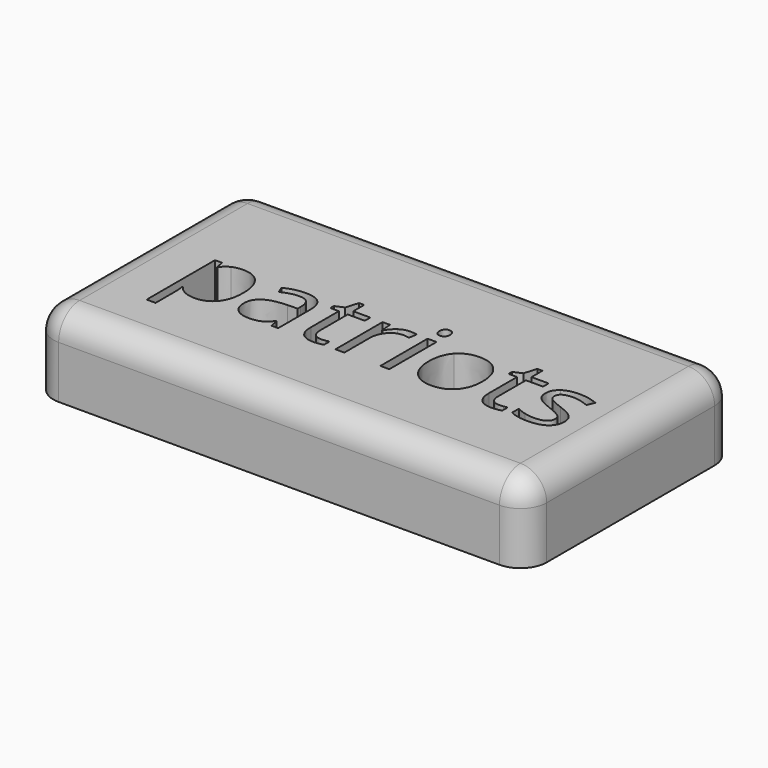
from build123d import *

# Parameters (mm, degrees)
F0_W     = 95.5135166992
F0_H     = 50.8
F0_W_2   = 1.7292703406
F0_H_2   = 11.411851477
F1_DEPTH = 15.24
F2_R     = 5.08


with BuildPart() as f1:
    # F0 (on Top) → F1 (new body)
    with BuildSketch(Plane.XY):
        with Locations((-40.7673553974, 31.574638178)):
            Rectangle(F0_W, F0_H)
        with BuildLine():
            add(Edge.make_bspline(
                [(-66.9101008572, 24.2706731889), (-68.1645715379, 22.7129971114), (-70.3936309942, 22.7129971114)],
                knots=[0, 0, 0, 1, 1, 1], degree=2))
            add(Edge.make_bspline(
                [(-70.3936309942, 22.7129971114), (-71.5098266862, 22.7129971114), (-72.4311046229, 23.12449015)],
                knots=[0, 0, 0, 1, 1, 1], degree=2))
            add(Edge.make_bspline(
                [(-72.4311046229, 23.12449015), (-73.3523825597, 23.5359831887), (-73.9754529907, 24.3922885404)],
                knots=[0, 0, 0, 1, 1, 1], degree=2))
            Line((-73.9754529907, 24.3922885404), (-74.1020662334, 24.3922885404))
            add(Edge.make_bspline(
                [(-74.1020662334, 24.3922885404), (-73.9754529907, 23.3927103088), (-73.9754529907, 22.4964218278)],
                knots=[0, 0, 0, 1, 1, 1], degree=2))
            Line((-73.9754529907, 22.4964218278), (-73.9754529907, 17.7984041395))
            Line((-73.9754529907, 17.7984041395), (-75.7047233313, 17.7984041395))
            Line((-75.7047233313, 17.7984041395), (-75.7047233313, 34.334760017))
            Line((-75.7047233313, 34.334760017), (-74.2986499522, 34.334760017))
            Line((-74.2986499522, 34.334760017), (-74.0587511767, 32.7720860483))
            Line((-74.0587511767, 32.7720860483), (-73.9754529907, 32.7720860483))
            add(Edge.make_bspline(
                [(-73.9754529907, 32.7720860483), (-73.309067503, 33.711689586), (-72.424440768, 34.1281805158)],
                knots=[0, 0, 0, 1, 1, 1], degree=2))
            add(Edge.make_bspline(
                [(-72.424440768, 34.1281805158), (-71.5398140331, 34.5446714456), (-70.3936309942, 34.5446714456)],
                knots=[0, 0, 0, 1, 1, 1], degree=2))
            add(Edge.make_bspline(
                [(-70.3936309942, 34.5446714456), (-68.1245884086, 34.5446714456), (-66.8901092926, 32.9919932593)],
                knots=[0, 0, 0, 1, 1, 1], degree=2))
            add(Edge.make_bspline(
                [(-66.8901092926, 32.9919932593), (-65.6556301766, 31.4393150729), (-65.6556301766, 28.6404960245)],
                knots=[0, 0, 0, 1, 1, 1], degree=2))
            add(Edge.make_bspline(
                [(-65.6556301766, 28.6404960245), (-65.6556301766, 25.8283492664), (-66.9101008572, 24.2706731889)],
                knots=[0, 0, 0, 1, 1, 1], degree=2))
        make_face(mode=Mode.SUBTRACT)
        with BuildLine():
            Line((-54.3370726679, 22.92290854), (-55.6198647317, 22.92290854))
            Line((-55.6198647317, 22.92290854), (-55.9630532579, 24.54888913))
            Line((-55.9630532579, 24.54888913), (-56.0463514439, 24.54888913))
            add(Edge.make_bspline(
                [(-56.0463514439, 24.54888913), (-56.8993248681, 23.4760084948), (-57.7473004012, 23.0945028031)],
                knots=[0, 0, 0, 1, 1, 1], degree=2))
            add(Edge.make_bspline(
                [(-57.7473004012, 23.0945028031), (-58.5952759343, 22.7129971114), (-59.8680722159, 22.7129971114)],
                knots=[0, 0, 0, 1, 1, 1], degree=2))
            add(Edge.make_bspline(
                [(-59.8680722159, 22.7129971114), (-61.5640232821, 22.7129971114), (-62.5269503118, 23.5892940277)],
                knots=[0, 0, 0, 1, 1, 1], degree=2))
            add(Edge.make_bspline(
                [(-62.5269503118, 23.5892940277), (-63.4898773416, 24.465590944), (-63.4898773416, 26.0782438243)],
                knots=[0, 0, 0, 1, 1, 1], degree=2))
            add(Edge.make_bspline(
                [(-63.4898773416, 26.0782438243), (-63.4898773416, 29.5334525781), (-57.962209721, 29.70004895)],
                knots=[0, 0, 0, 1, 1, 1], degree=2))
            Line((-57.962209721, 29.70004895), (-56.0263598792, 29.7633555713))
            Line((-56.0263598792, 29.7633555713), (-56.0263598792, 30.4730561157))
            add(Edge.make_bspline(
                [(-56.0263598792, 30.4730561157), (-56.0263598792, 31.8158228735), (-56.6027833261, 32.4555529417)],
                knots=[0, 0, 0, 1, 1, 1], degree=2))
            add(Edge.make_bspline(
                [(-56.6027833261, 32.4555529417), (-57.179206773, 33.0952830099), (-58.4520030545, 33.0952830099)],
                knots=[0, 0, 0, 1, 1, 1], degree=2))
            add(Edge.make_bspline(
                [(-58.4520030545, 33.0952830099), (-59.8780679982, 33.0952830099), (-61.677308815, 32.222318021)],
                knots=[0, 0, 0, 1, 1, 1], degree=2))
            Line((-61.677308815, 32.222318021), (-62.2104172052, 33.5450932141))
            add(Edge.make_bspline(
                [(-62.2104172052, 33.5450932141), (-61.3674395632, 34.0015672732), (-60.3628634405, 34.2614576134)],
                knots=[0, 0, 0, 1, 1, 1], degree=2))
            add(Edge.make_bspline(
                [(-60.3628634405, 34.2614576134), (-59.3582873178, 34.5213479536), (-58.3453813765, 34.5213479536)],
                knots=[0, 0, 0, 1, 1, 1], degree=2))
            add(Edge.make_bspline(
                [(-58.3453813765, 34.5213479536), (-56.3062417841, 34.5213479536), (-55.321657226, 33.616729654)],
                knots=[0, 0, 0, 1, 1, 1], degree=2))
            add(Edge.make_bspline(
                [(-55.321657226, 33.616729654), (-54.3370726679, 32.7121113544), (-54.3370726679, 30.7129548913)],
                knots=[0, 0, 0, 1, 1, 1], degree=2))
            Line((-54.3370726679, 30.7129548913), (-54.3370726679, 22.92290854))
        make_face(mode=Mode.SUBTRACT)
        with BuildLine():
            add(Edge.make_bspline(
                [(-48.4362291742, 24.6938279736), (-47.9464358407, 24.1423939825), (-47.0934624165, 24.1423939825)],
                knots=[0, 0, 0, 1, 1, 1], degree=2))
            add(Edge.make_bspline(
                [(-47.0934624165, 24.1423939825), (-46.6336564299, 24.1423939825), (-46.2071697178, 24.2090325313)],
                knots=[0, 0, 0, 1, 1, 1], degree=2))
            add(Edge.make_bspline(
                [(-46.2071697178, 24.2090325313), (-45.7806830057, 24.27567108), (-45.5307884478, 24.3489734837)],
                knots=[0, 0, 0, 1, 1, 1], degree=2))
            Line((-45.5307884478, 24.3489734837), (-45.5307884478, 23.0261982906))
            add(Edge.make_bspline(
                [(-45.5307884478, 23.0261982906), (-45.8106703526, 22.892921193), (-46.3571064525, 22.8029591522)],
                knots=[0, 0, 0, 1, 1, 1], degree=2))
            add(Edge.make_bspline(
                [(-46.3571064525, 22.8029591522), (-46.9035425525, 22.7129971114), (-47.3433569744, 22.7129971114)],
                knots=[0, 0, 0, 1, 1, 1], degree=2))
            add(Edge.make_bspline(
                [(-47.3433569744, 22.7129971114), (-50.6519609208, 22.7129971114), (-50.6519609208, 26.2015251395)],
                knots=[0, 0, 0, 1, 1, 1], degree=2))
            Line((-50.6519609208, 26.2015251395), (-50.6519609208, 32.9919932593))
            Line((-50.6519609208, 32.9919932593), (-52.2879372932, 32.9919932593))
            Line((-52.2879372932, 32.9919932593), (-52.2879372932, 33.8249751189))
            Line((-52.2879372932, 33.8249751189), (-50.6519609208, 34.5446714456))
            Line((-50.6519609208, 34.5446714456), (-49.9256007392, 36.9803104032))
            Line((-49.9256007392, 36.9803104032), (-48.9260225077, 36.9803104032))
            Line((-48.9260225077, 36.9803104032), (-48.9260225077, 34.334760017))
            Line((-48.9260225077, 34.334760017), (-45.6140866338, 34.334760017))
            Line((-45.6140866338, 34.334760017), (-45.6140866338, 32.9919932593))
            Line((-45.6140866338, 32.9919932593), (-48.9260225077, 32.9919932593))
            Line((-48.9260225077, 32.9919932593), (-48.9260225077, 26.2748275432))
            add(Edge.make_bspline(
                [(-48.9260225077, 26.2748275432), (-48.9260225077, 25.2452619647), (-48.4362291742, 24.6938279736)],
                knots=[0, 0, 0, 1, 1, 1], degree=2))
        make_face(mode=Mode.SUBTRACT)
        with BuildLine():
            add(Edge.make_bspline(
                [(-40.0131166095, 33.9399266155), (-39.1168281286, 34.5446714456), (-38.0439474934, 34.5446714456)],
                knots=[0, 0, 0, 1, 1, 1], degree=2))
            add(Edge.make_bspline(
                [(-38.0439474934, 34.5446714456), (-37.2842680374, 34.5446714456), (-36.681189171, 34.418058203)],
                knots=[0, 0, 0, 1, 1, 1], degree=2))
            Line((-36.681189171, 34.418058203), (-36.9210879466, 32.815401105))
            add(Edge.make_bspline(
                [(-36.9210879466, 32.815401105), (-37.6274565635, 32.9720016947), (-38.170560736, 32.9720016947)],
                knots=[0, 0, 0, 1, 1, 1], degree=2))
            add(Edge.make_bspline(
                [(-38.170560736, 32.9720016947), (-39.5566425505, 32.9720016947), (-40.5395611448, 31.8474761841)],
                knots=[0, 0, 0, 1, 1, 1], degree=2))
            add(Edge.make_bspline(
                [(-40.5395611448, 31.8474761841), (-41.5224797392, 30.7229506736), (-41.5224797392, 29.046991172)],
                knots=[0, 0, 0, 1, 1, 1], degree=2))
            Line((-41.5224797392, 29.046991172), (-41.5224797392, 22.92290854))
            Line((-41.5224797392, 22.92290854), (-43.2517500798, 22.92290854))
            Line((-43.2517500798, 22.92290854), (-43.2517500798, 34.334760017))
            Line((-43.2517500798, 34.334760017), (-41.8256851361, 34.334760017))
            Line((-41.8256851361, 34.334760017), (-41.6257694898, 32.222318021))
            Line((-41.6257694898, 32.222318021), (-41.5424713038, 32.222318021))
            add(Edge.make_bspline(
                [(-41.5424713038, 32.222318021), (-40.9094050905, 33.3351817855), (-40.0131166095, 33.9399266155)],
                knots=[0, 0, 0, 1, 1, 1], degree=2))
        make_face(mode=Mode.SUBTRACT)
        with Locations((-33.6807885126, 28.6288342785)):
            Rectangle(F0_W_2, F0_H_2, mode=Mode.SUBTRACT)
        with BuildLine():
            add(Edge.make_bspline(
                [(-20.7129269217, 32.9503441663), (-19.3018556515, 31.356016887), (-19.3018556515, 28.6404960245)],
                knots=[0, 0, 0, 1, 1, 1], degree=2))
            add(Edge.make_bspline(
                [(-19.3018556515, 28.6404960245), (-19.3018556515, 25.848340831), (-20.7062630669, 24.2806689712)],
                knots=[0, 0, 0, 1, 1, 1], degree=2))
            add(Edge.make_bspline(
                [(-20.7062630669, 24.2806689712), (-22.1106704822, 22.7129971114), (-24.5896244965, 22.7129971114)],
                knots=[0, 0, 0, 1, 1, 1], degree=2))
            add(Edge.make_bspline(
                [(-24.5896244965, 22.7129971114), (-26.1223111182, 22.7129971114), (-27.3084772864, 23.4326934381)],
                knots=[0, 0, 0, 1, 1, 1], degree=2))
            add(Edge.make_bspline(
                [(-27.3084772864, 23.4326934381), (-28.4946434545, 24.1523897648), (-29.1410373776, 25.4951565225)],
                knots=[0, 0, 0, 1, 1, 1], degree=2))
            add(Edge.make_bspline(
                [(-29.1410373776, 25.4951565225), (-29.7874313006, 26.8379232803), (-29.7874313006, 28.6404960245)],
                knots=[0, 0, 0, 1, 1, 1], degree=2))
            add(Edge.make_bspline(
                [(-29.7874313006, 28.6404960245), (-29.7874313006, 31.4293192906), (-28.3913537039, 32.9869953681)],
                knots=[0, 0, 0, 1, 1, 1], degree=2))
            add(Edge.make_bspline(
                [(-28.3913537039, 32.9869953681), (-26.9952761071, 34.5446714456), (-24.5163220929, 34.5446714456)],
                knots=[0, 0, 0, 1, 1, 1], degree=2))
            add(Edge.make_bspline(
                [(-24.5163220929, 34.5446714456), (-22.123998192, 34.5446714456), (-20.7129269217, 32.9503441663)],
                knots=[0, 0, 0, 1, 1, 1], degree=2))
        make_face(mode=Mode.SUBTRACT)
        with BuildLine():
            add(Edge.make_bspline(
                [(-13.9274566931, 24.6938279736), (-13.4376633597, 24.1423939825), (-12.5846899354, 24.1423939825)],
                knots=[0, 0, 0, 1, 1, 1], degree=2))
            add(Edge.make_bspline(
                [(-12.5846899354, 24.1423939825), (-12.1248839489, 24.1423939825), (-11.6983972367, 24.2090325313)],
                knots=[0, 0, 0, 1, 1, 1], degree=2))
            add(Edge.make_bspline(
                [(-11.6983972367, 24.2090325313), (-11.2719105246, 24.27567108), (-11.0220159667, 24.3489734837)],
                knots=[0, 0, 0, 1, 1, 1], degree=2))
            Line((-11.0220159667, 24.3489734837), (-11.0220159667, 23.0261982906))
            add(Edge.make_bspline(
                [(-11.0220159667, 23.0261982906), (-11.3018978716, 22.892921193), (-11.8483339715, 22.8029591522)],
                knots=[0, 0, 0, 1, 1, 1], degree=2))
            add(Edge.make_bspline(
                [(-11.8483339715, 22.8029591522), (-12.3947700714, 22.7129971114), (-12.8345844933, 22.7129971114)],
                knots=[0, 0, 0, 1, 1, 1], degree=2))
            add(Edge.make_bspline(
                [(-12.8345844933, 22.7129971114), (-16.1431884398, 22.7129971114), (-16.1431884398, 26.2015251395)],
                knots=[0, 0, 0, 1, 1, 1], degree=2))
            Line((-16.1431884398, 26.2015251395), (-16.1431884398, 32.9919932593))
            Line((-16.1431884398, 32.9919932593), (-17.7791648121, 32.9919932593))
            Line((-17.7791648121, 32.9919932593), (-17.7791648121, 33.8249751189))
            Line((-17.7791648121, 33.8249751189), (-16.1431884398, 34.5446714456))
            Line((-16.1431884398, 34.5446714456), (-15.4168282582, 36.9803104032))
            Line((-15.4168282582, 36.9803104032), (-14.4172500266, 36.9803104032))
            Line((-14.4172500266, 36.9803104032), (-14.4172500266, 34.334760017))
            Line((-14.4172500266, 34.334760017), (-11.1053141527, 34.334760017))
            Line((-11.1053141527, 34.334760017), (-11.1053141527, 32.9919932593))
            Line((-11.1053141527, 32.9919932593), (-14.4172500266, 32.9919932593))
            Line((-14.4172500266, 32.9919932593), (-14.4172500266, 26.2748275432))
            add(Edge.make_bspline(
                [(-14.4172500266, 26.2748275432), (-14.4172500266, 25.2452619647), (-13.9274566931, 24.6938279736)],
                knots=[0, 0, 0, 1, 1, 1], degree=2))
        make_face(mode=Mode.SUBTRACT)
        with BuildLine():
            add(Edge.make_bspline(
                [(-2.0957823588, 27.9207996978), (-1.382749887, 27.1711160241), (-1.382749887, 26.0349287676)],
                knots=[0, 0, 0, 1, 1, 1], degree=2))
            add(Edge.make_bspline(
                [(-1.382749887, 26.0349287676), (-1.382749887, 24.442267452), (-2.5689160551, 23.5776322817)],
                knots=[0, 0, 0, 1, 1, 1], degree=2))
            add(Edge.make_bspline(
                [(-2.5689160551, 23.5776322817), (-3.7550822232, 22.7129971114), (-5.9008434937, 22.7129971114)],
                knots=[0, 0, 0, 1, 1, 1], degree=2))
            add(Edge.make_bspline(
                [(-5.9008434937, 22.7129971114), (-8.1698860793, 22.7129971114), (-9.4393504334, 23.4326934381)],
                knots=[0, 0, 0, 1, 1, 1], degree=2))
            Line((-9.4393504334, 23.4326934381), (-9.4393504334, 25.035350536))
            add(Edge.make_bspline(
                [(-9.4393504334, 25.035350536), (-8.6163643561, 24.6188596062), (-7.6750948547, 24.3806267943)],
                knots=[0, 0, 0, 1, 1, 1], degree=2))
            add(Edge.make_bspline(
                [(-7.6750948547, 24.3806267943), (-6.7338253533, 24.1423939825), (-5.857528437, 24.1423939825)],
                knots=[0, 0, 0, 1, 1, 1], degree=2))
            add(Edge.make_bspline(
                [(-5.857528437, 24.1423939825), (-4.5047658969, 24.1423939825), (-3.7767397516, 24.5738785858)],
                knots=[0, 0, 0, 1, 1, 1], degree=2))
            add(Edge.make_bspline(
                [(-3.7767397516, 24.5738785858), (-3.0487136063, 25.0053631891), (-3.0487136063, 25.8916558877)],
                knots=[0, 0, 0, 1, 1, 1], degree=2))
            add(Edge.make_bspline(
                [(-3.0487136063, 25.8916558877), (-3.0487136063, 26.5580413754), (-3.6251370531, 27.0311750717)],
                knots=[0, 0, 0, 1, 1, 1], degree=2))
            add(Edge.make_bspline(
                [(-3.6251370531, 27.0311750717), (-4.2015605, 27.504308768), (-5.880851929, 28.1507026911)],
                knots=[0, 0, 0, 1, 1, 1], degree=2))
            add(Edge.make_bspline(
                [(-5.880851929, 28.1507026911), (-7.4735132447, 28.7437857751), (-8.1448966235, 29.1869321245)],
                knots=[0, 0, 0, 1, 1, 1], degree=2))
            add(Edge.make_bspline(
                [(-8.1448966235, 29.1869321245), (-8.8162800024, 29.6300784738), (-9.1444748551, 30.1915082472)],
                knots=[0, 0, 0, 1, 1, 1], degree=2))
            add(Edge.make_bspline(
                [(-9.1444748551, 30.1915082472), (-9.4726697078, 30.7529380206), (-9.4726697078, 31.5326090412)],
                knots=[0, 0, 0, 1, 1, 1], degree=2))
            add(Edge.make_bspline(
                [(-9.4726697078, 31.5326090412), (-9.4726697078, 32.9286866379), (-8.3364824513, 33.7366790418)],
                knots=[0, 0, 0, 1, 1, 1], degree=2))
            add(Edge.make_bspline(
                [(-8.3364824513, 33.7366790418), (-7.2002951947, 34.5446714456), (-5.2244622236, 34.5446714456)],
                knots=[0, 0, 0, 1, 1, 1], degree=2))
            add(Edge.make_bspline(
                [(-5.2244622236, 34.5446714456), (-3.3819063501, 34.5446714456), (-1.6193167351, 33.794987772)],
                knots=[0, 0, 0, 1, 1, 1], degree=2))
            Line((-1.6193167351, 33.794987772), (-2.2357233113, 32.3889143929))
            add(Edge.make_bspline(
                [(-2.2357233113, 32.3889143929), (-3.9516659421, 33.0952830099), (-5.3477435389, 33.0952830099)],
                knots=[0, 0, 0, 1, 1, 1], degree=2))
            add(Edge.make_bspline(
                [(-5.3477435389, 33.0952830099), (-6.5772247637, 33.0952830099), (-7.2019611584, 32.7104453907)],
                knots=[0, 0, 0, 1, 1, 1], degree=2))
            add(Edge.make_bspline(
                [(-7.2019611584, 32.7104453907), (-7.8266975532, 32.3256077716), (-7.8266975532, 31.6492265015)],
                knots=[0, 0, 0, 1, 1, 1], degree=2))
            add(Edge.make_bspline(
                [(-7.8266975532, 31.6492265015), (-7.8266975532, 31.189420515), (-7.5917966687, 30.8678895172)],
                knots=[0, 0, 0, 1, 1, 1], degree=2))
            add(Edge.make_bspline(
                [(-7.5917966687, 30.8678895172), (-7.3568957843, 30.5463585194), (-6.8371151039, 30.2548148685)],
                knots=[0, 0, 0, 1, 1, 1], degree=2))
            add(Edge.make_bspline(
                [(-6.8371151039, 30.2548148685), (-6.3173344235, 29.9632712176), (-4.8379586408, 29.4101712628)],
                knots=[0, 0, 0, 1, 1, 1], degree=2))
            add(Edge.make_bspline(
                [(-4.8379586408, 29.4101712628), (-2.8088148307, 28.6704833715), (-2.0957823588, 27.9207996978)],
                knots=[0, 0, 0, 1, 1, 1], degree=2))
        make_face(mode=Mode.SUBTRACT)
        with BuildLine():
            add(Edge.make_bspline(
                [(-34.4004848393, 36.5571556185), (-34.6920284902, 36.8437013782), (-34.6920284902, 37.42678868)],
                knots=[0, 0, 0, 1, 1, 1], degree=2))
            add(Edge.make_bspline(
                [(-34.6920284902, 37.42678868), (-34.6920284902, 38.0198717641), (-34.4004848393, 38.2964217415)],
                knots=[0, 0, 0, 1, 1, 1], degree=2))
            add(Edge.make_bspline(
                [(-34.4004848393, 38.2964217415), (-34.1089411884, 38.5729717189), (-33.6691267665, 38.5729717189)],
                knots=[0, 0, 0, 1, 1, 1], degree=2))
            add(Edge.make_bspline(
                [(-33.6691267665, 38.5729717189), (-33.2526358367, 38.5729717189), (-32.9510964035, 38.2914238503)],
                knots=[0, 0, 0, 1, 1, 1], degree=2))
            add(Edge.make_bspline(
                [(-32.9510964035, 38.2914238503), (-32.6495569704, 38.0098759817), (-32.6495569704, 37.42678868)],
                knots=[0, 0, 0, 1, 1, 1], degree=2))
            add(Edge.make_bspline(
                [(-32.6495569704, 37.42678868), (-32.6495569704, 36.8437013782), (-32.9510964035, 36.5571556185)],
                knots=[0, 0, 0, 1, 1, 1], degree=2))
            add(Edge.make_bspline(
                [(-32.9510964035, 36.5571556185), (-33.2526358367, 36.2706098588), (-33.6691267665, 36.2706098588)],
                knots=[0, 0, 0, 1, 1, 1], degree=2))
            add(Edge.make_bspline(
                [(-33.6691267665, 36.2706098588), (-34.1089411884, 36.2706098588), (-34.4004848393, 36.5571556185)],
                knots=[0, 0, 0, 1, 1, 1], degree=2))
        make_face(mode=Mode.SUBTRACT)
    extrude(amount=F1_DEPTH)

    # F2
    f2_edges = [f1.edges().sort_by_distance(p)[0] for p in [
        (6.989403, 56.974638, 7.62),
        (-40.767355, 56.974638, 15.24),
        (6.989403, 31.574638, 15.24),
        (6.989403, 6.174638, 7.62),
        (-40.767355, 6.174638, 15.24),
        (-88.524114, 6.174638, 7.62),
        (-88.524114, 56.974638, 7.62),
        (-88.524114, 31.574638, 15.24),
    ]]
    fillet(f2_edges, radius=F2_R)


solid = f1.part
